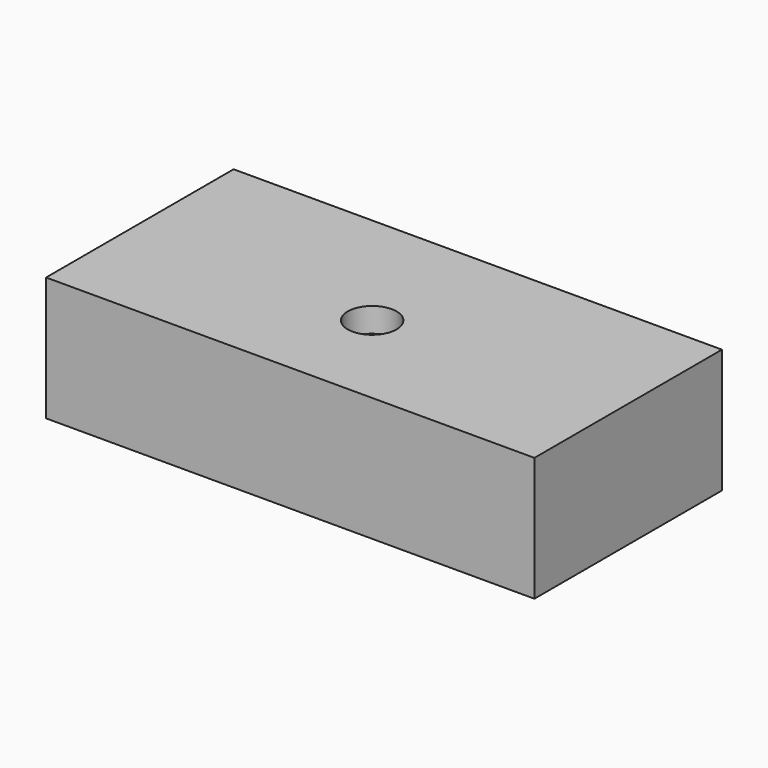
from build123d import *

# Parameters (mm, degrees)
F0_W           = 100
F0_H           = 48
F1_DEPTH       = 25.4
F3_D           = 5
F3_CBORE_D     = 10
F3_CBORE_DEPTH = 5


with BuildPart() as f1:
    # F0 (on Top) → F1 (new body)
    with BuildSketch(Plane.XY):
        with Locations((0, 3.029243)):
            Rectangle(F0_W, F0_H)
    extrude(amount=F1_DEPTH)

    # F3 (through all)
    with Locations(Plane.XY.offset(25.4)):
        with Locations((0, 0)):
            CounterBoreHole(F3_D / 2, F3_CBORE_D / 2, F3_CBORE_DEPTH)


solid = f1.part
